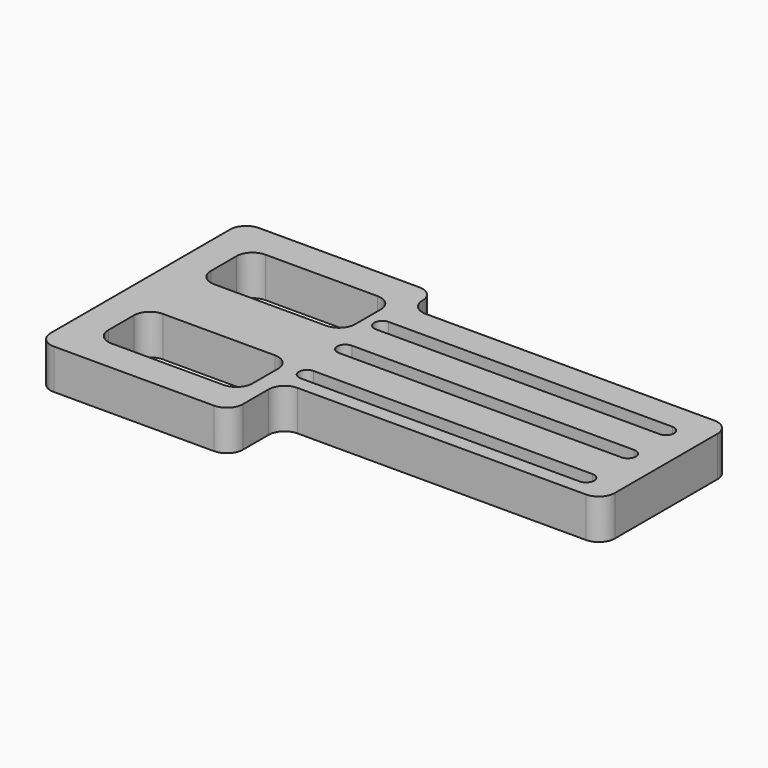
from build123d import *

# Parameters (mm, degrees)
F1_DEPTH = 25


with BuildPart() as f1:
    # F0 (on Top) → F1 (new body)
    with BuildSketch(Plane.XY):
        with BuildLine():
            ThreePointArc((-29.679486, 52.278812), (-36.750554, 49.34988), (-39.679486, 42.278812))
            Line((-39.679486, 42.278812), (-39.679486, -97.721188))
            ThreePointArc((-39.679486, -97.721188), (-36.750554, -104.792256), (-29.679486, -107.721188))
            Line((-29.679486, -107.721188), (70.320514, -107.721188))
            ThreePointArc((70.320514, -107.721188), (77.391582, -104.792256), (80.320514, -97.721188))
            Line((80.320514, -97.721188), (80.320514, -77.721188))
            ThreePointArc((80.320514, -77.721188), (83.249446, -70.65012), (90.320514, -67.721188))
            Line((90.320514, -67.721188), (270.320514, -67.721188))
            ThreePointArc((270.320514, -67.721188), (277.391582, -64.792256), (280.320514, -57.721188))
            Line((280.320514, -57.721188), (280.320514, 22.278812))
            ThreePointArc((280.320514, 22.278812), (277.391582, 29.34988), (270.320514, 32.278812))
            Line((270.320514, 32.278812), (90.320514, 32.278812))
            ThreePointArc((90.320514, 32.278812), (83.249446, 35.207744), (80.320514, 42.278812))
            ThreePointArc((80.320514, 42.278812), (77.391582, 49.34988), (70.320514, 52.278812))
            Line((70.320514, 52.278812), (-29.679486, 52.278812))
        make_face()
        with BuildLine():
            ThreePointArc((-19.679486, -57.721188), (-16.750554, -50.65012), (-9.679486, -47.721188))
            Line((-9.679486, -47.721188), (60.320514, -47.721188))
            ThreePointArc((60.320514, -47.721188), (67.391582, -50.65012), (70.320514, -57.721188))
            Line((70.320514, -57.721188), (70.320514, -77.721188))
            ThreePointArc((70.320514, -77.721188), (67.391582, -84.792256), (60.320514, -87.721188))
            Line((60.320514, -87.721188), (-9.679486, -87.721188))
            ThreePointArc((-9.679486, -87.721188), (-16.750554, -84.792256), (-19.679486, -77.721188))
            Line((-19.679486, -77.721188), (-19.679486, -57.721188))
        make_face(mode=Mode.SUBTRACT)
        with BuildLine():
            Line((259.320514, -58.89954), (85.204735, -58.89954))
            ThreePointArc((85.204735, -58.89954), (80.204735, -53.89954), (85.204735, -48.89954))
            Line((85.204735, -48.89954), (259.320514, -48.89954))
            ThreePointArc((259.320514, -48.89954), (264.320514, -53.89954), (259.320514, -58.89954))
        make_face(mode=Mode.SUBTRACT)
        with BuildLine():
            ThreePointArc((-19.679486, 22.278812), (-16.750554, 29.34988), (-9.679486, 32.278812))
            Line((-9.679486, 32.278812), (60.320514, 32.278812))
            ThreePointArc((60.320514, 32.278812), (67.391582, 29.34988), (70.320514, 22.278812))
            Line((70.320514, 22.278812), (70.320514, 2.278812))
            ThreePointArc((70.320514, 2.278812), (67.391582, -4.792256), (60.320514, -7.721188))
            Line((60.320514, -7.721188), (-9.679486, -7.721188))
            ThreePointArc((-9.679486, -7.721188), (-16.750554, -4.792256), (-19.679486, 2.278812))
            Line((-19.679486, 2.278812), (-19.679486, 22.278812))
        make_face(mode=Mode.SUBTRACT)
        with BuildLine():
            Line((259.320514, -26.34807), (83.129056, -26.34807))
            ThreePointArc((83.129056, -26.34807), (78.129056, -21.34807), (83.129056, -16.34807))
            Line((83.129056, -16.34807), (259.320514, -16.34807))
            ThreePointArc((259.320514, -16.34807), (264.320514, -21.34807), (259.320514, -26.34807))
        make_face(mode=Mode.SUBTRACT)
        with BuildLine():
            Line((258.52415, 4.408746), (81.572294, 4.408746))
            ThreePointArc((81.572294, 4.408746), (76.572294, 9.408746), (81.572294, 14.408746))
            Line((81.572294, 14.408746), (258.52415, 14.408746))
            ThreePointArc((258.52415, 14.408746), (263.52415, 9.408746), (258.52415, 4.408746))
        make_face(mode=Mode.SUBTRACT)
    extrude(amount=F1_DEPTH)


solid = f1.part
